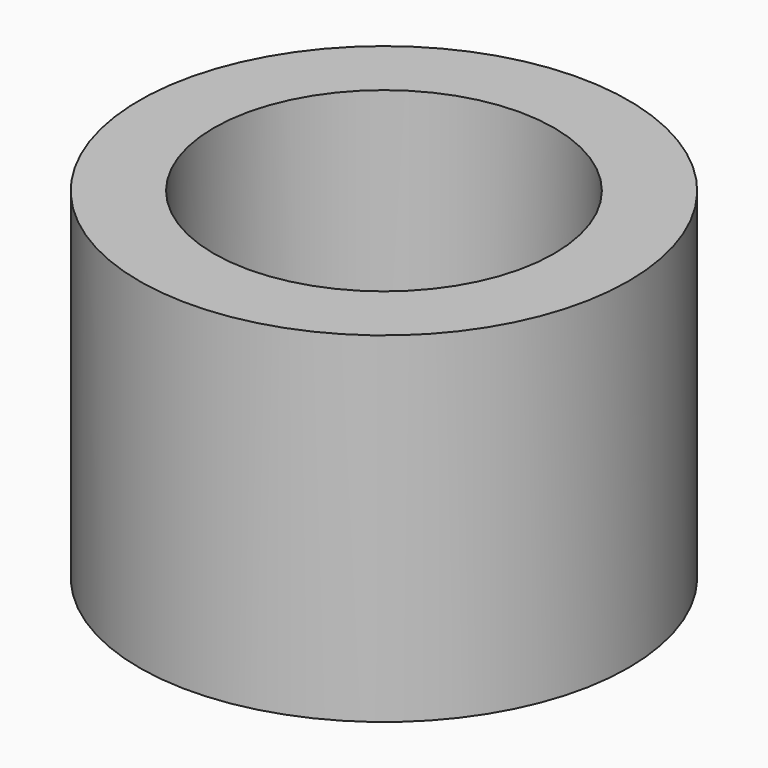
from build123d import *

# Parameters (mm, degrees)
F1_R     = 5.75
F1_R_2   = 4
F2_DEPTH = 8


with BuildPart() as f2:
    # F1 (on face) → F2 (new body)
    with BuildSketch(Plane.XY):
        Circle(F1_R)
        Circle(F1_R_2, mode=Mode.SUBTRACT)
    extrude(amount=F2_DEPTH)


solid = f2.part
